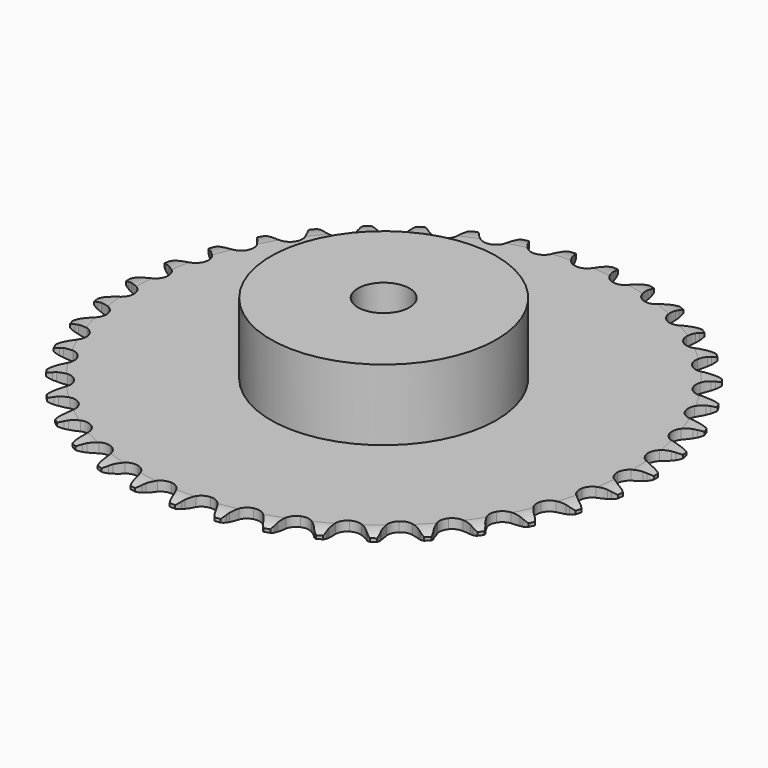
from build123d import *

# Parameters (mm, degrees)
PAD_DEPTH         = 3
SKETCH001_R       = 35
PAD001_DEPTH      = 25
SKETCH002_R       = 8
POCKET_DEPTH      = 0.001
POCKET_DEPTH_BACK = 25.001


with BuildPart() as part:
    # Sprocket → Pad (new body)
    with BuildSketch(Plane.XY):
        with BuildLine():
            ThreePointArc((-6.68105, 82.759654), (-5.637565, 81.583335), (-4.91942, 80.18446))
            Line((-4.91942, 80.18446), (-4.541526, 79.144757))
            ThreePointArc((-4.541526, 79.144757), (-3.943631, 77.809108), (-3.159576, 76.573513))
            ThreePointArc((-3.159576, 76.573513), (-1.768822, 75.402549), (0, 74.982286))
            ThreePointArc((0, 74.982286), (1.768822, 75.402549), (3.159576, 76.573513))
            ThreePointArc((3.159576, 76.573513), (3.943631, 77.809108), (4.541526, 79.144757))
            Line((4.541526, 79.144757), (4.91942, 80.18446))
            ThreePointArc((4.91942, 80.18446), (5.637565, 81.583335), (6.68105, 82.759654))
            ThreePointArc((6.68105, 82.759654), (7.522327, 81.431182), (8.006777, 79.935223))
            Line((8.006777, 79.935223), (8.212997, 78.848366))
            ThreePointArc((8.212997, 78.848366), (8.588897, 77.434104), (9.164595, 76.088738))
            ThreePointArc((9.164595, 76.088738), (10.349503, 74.709845), (12.028004, 74.011285))
            ThreePointArc((12.028004, 74.011285), (13.841336, 74.142367), (15.401916, 75.075075))
            Line((15.401916, 75.075075), (17.178426, 77.391342))
            ThreePointArc((17.178426, 77.391342), (17.435129, 77.881524), (17.718207, 78.356962))
            ThreePointArc((17.718207, 78.356962), (18.651447, 79.622524), (19.870114, 80.616222))
            ThreePointArc((19.870114, 80.616222), (20.487395, 79.170003), (20.725603, 77.615705))
            Line((20.725603, 77.615705), (20.754809, 76.509843))
            ThreePointArc((20.754809, 76.509843), (20.898977, 75.053596), (21.251408, 73.633304))
            ThreePointArc((21.251408, 73.633304), (22.199782, 72.082195), (23.74449, 71.12343))
            ThreePointArc((23.74449, 71.12343), (25.555366, 70.961936), (27.245354, 71.632231))
            Line((27.245354, 71.632231), (29.370415, 73.633531))
            ThreePointArc((29.370415, 73.633531), (29.702423, 74.076187), (30.058101, 74.500059))
            ThreePointArc((30.058101, 74.500059), (31.182267, 75.59953), (32.544553, 76.384873))
            ThreePointArc((32.544553, 76.384873), (32.921851, 74.858363), (32.907646, 73.285982))
            Line((32.907646, 73.285982), (32.759081, 72.189755))
            ThreePointArc((32.759081, 72.189755), (32.667784, 70.72924), (32.78782, 69.270807))
            ThreePointArc((32.78782, 69.270807), (33.475098, 67.587654), (34.846006, 66.393517))
            ThreePointArc((34.846006, 66.393517), (36.607526, 65.943629), (38.383152, 66.334151))
            Line((38.383152, 66.334151), (40.801724, 67.96865))
            ThreePointArc((40.801724, 67.96865), (41.200441, 68.352316), (41.619507, 68.713645))
            ThreePointArc((41.619507, 68.713645), (42.905482, 69.618549), (44.376105, 70.175195))
            ThreePointArc((44.376105, 70.175195), (44.503647, 68.607931), (44.237399, 67.05819))
            Line((44.237399, 67.05819), (43.914911, 65.99999))
            ThreePointArc((43.914911, 65.99999), (43.590513, 64.573034), (43.475046, 63.114232))
            ThreePointArc((43.475046, 63.114232), (43.883426, 61.342629), (45.045028, 59.944046))
            ThreePointArc((45.045028, 59.944046), (46.71157, 59.217416), (48.526846, 59.31805))
            Line((48.526846, 59.31805), (51.176291, 60.543417))
            ThreePointArc((51.176291, 60.543417), (51.631388, 60.858156), (52.102989, 61.147583))
            ThreePointArc((52.102989, 61.147583), (53.517468, 61.834484), (55.058339, 62.148017))
            ThreePointArc((55.058339, 62.148017), (54.932823, 60.580589), (54.421427, 59.093626))
            Line((54.421427, 59.093626), (53.933367, 58.100861))
            ThreePointArc((53.933367, 58.100861), (53.38427, 56.744421), (53.03629, 55.323031))
            ThreePointArc((53.03629, 55.323031), (53.155197, 53.508861), (54.077408, 51.942055))
            ThreePointArc((54.077408, 51.942055), (55.605809, 50.957503), (57.41372, 50.765643))
            Line((57.41372, 50.765643), (60.225418, 51.550141))
            ThreePointArc((60.225418, 51.550141), (60.72511, 51.787802), (61.237031, 51.99783))
            ThreePointArc((61.237031, 51.99783), (62.74338, 52.448938), (64.314591, 52.511238))
            ThreePointArc((64.314591, 52.511238), (63.939267, 50.984242), (63.195968, 49.598568))
            Line((63.195968, 49.598568), (62.554978, 48.696949))
            ThreePointArc((62.554978, 48.696949), (61.795403, 47.446156), (61.223922, 46.098994))
            ThreePointArc((61.223922, 46.098994), (61.050276, 44.289242), (61.709211, 42.594793))
            ThreePointArc((61.709211, 42.594793), (63.059887, 41.377818), (64.81361, 40.898433))
            Line((64.81361, 40.898433), (67.714739, 41.221744))
            ThreePointArc((67.714739, 41.221744), (68.246084, 41.376171), (68.785066, 41.501362))
            ThreePointArc((68.785066, 41.501362), (70.344271, 41.704992), (71.905129, 41.514445))
            ThreePointArc((71.905129, 41.514445), (71.289718, 40.06743), (70.333766, 38.818934))
            Line((70.333766, 38.818934), (69.556447, 38.031813))
            ThreePointArc((69.556447, 38.031813), (68.606067, 36.919061), (67.825887, 35.681016))
            ThreePointArc((67.825887, 35.681016), (67.364185, 33.922555), (67.742778, 32.144348))
            ThreePointArc((67.742778, 32.144348), (68.880747, 30.726469), (70.534861, 29.971975))
            Line((70.534861, 29.971975), (73.450284, 29.825725))
            ThreePointArc((73.450284, 29.825725), (73.999519, 29.892918), (74.551604, 29.930029))
            ThreePointArc((74.551604, 29.930029), (76.123282, 29.880909), (77.633361, 29.44245))
            ThreePointArc((77.633361, 29.44245), (76.793802, 28.112892), (75.649957, 27.033909))
            Line((75.649957, 27.033909), (74.756441, 26.381672))
            ThreePointArc((74.756441, 26.381672), (73.639871, 25.435782), (72.671197, 24.338919))
            ThreePointArc((72.671197, 24.338919), (71.933397, 22.677292), (72.021843, 20.861381))
            ThreePointArc((72.021843, 20.861381), (72.917631, 19.27932), (74.429296, 18.269259))
            Line((74.429296, 18.269259), (77.283505, 17.657236))
            ThreePointArc((77.283505, 17.657236), (77.836406, 17.635455), (78.387295, 17.583525))
            ThreePointArc((78.387295, 17.583525), (79.93074, 17.282925), (81.350931, 16.607911))
            ThreePointArc((81.350931, 16.607911), (80.308968, 15.430245), (79.006854, 14.548721))
            Line((79.006854, 14.548721), (78.020283, 14.04826))
            ThreePointArc((78.020283, 14.04826), (76.76644, 13.293729), (75.634361, 12.366456))
            ThreePointArc((75.634361, 12.366456), (74.639572, 10.844698), (74.43558, 9.038116))
            ThreePointArc((74.43558, 9.038116), (75.065988, 7.332848), (76.396051, 6.093378))
            Line((76.396051, 6.093378), (79.115123, 5.031433))
            ThreePointArc((79.115123, 5.031433), (79.657371, 4.921243), (80.192795, 4.781617))
            ThreePointArc((80.192795, 4.781617), (81.668034, 4.237324), (82.961554, 3.343236))
            ThreePointArc((82.961554, 3.343236), (81.744173, 2.347963), (80.317515, 1.686728))
            Line((80.317515, 1.686728), (79.26344, 1.351005))
            ThreePointArc((79.26344, 1.351005), (77.904799, 0.807376), (76.638635, 0.073709))
            ThreePointArc((76.638635, 0.073709), (75.412621, -1.268767), (74.921475, -3.019232))
            ThreePointArc((74.921475, -3.019232), (75.270174, -4.803542), (76.384189, -6.240318))
            Line((76.384189, -6.240318), (78.897702, -7.724681))
            ThreePointArc((78.897702, -7.724681), (79.415252, -7.920427), (79.921345, -8.144133))
            ThreePointArc((79.921345, -8.144133), (81.290169, -8.918023), (82.423517, -10.008027))
            ThreePointArc((82.423517, -10.008027), (81.062247, -10.79513), (79.547995, -11.21895))
            Line((79.547995, -11.21895), (78.453715, -11.38124))
            ThreePointArc((78.453715, -11.38124), (77.025464, -11.699888), (75.658009, -12.220947))
            ThreePointArc((75.658009, -12.220947), (74.232523, -13.349372), (73.466942, -14.998384))
            ThreePointArc((73.466942, -14.998384), (73.524903, -16.815523), (74.394016, -18.412393))
            Line((74.394016, -18.412393), (76.636872, -20.28073))
            ThreePointArc((76.636872, -20.28073), (77.11632, -20.556961), (77.579974, -20.858954))
            ThreePointArc((77.579974, -20.858954), (78.806932, -21.842397), (79.750753, -23.100087))
            ThreePointArc((79.750753, -23.100087), (78.280852, -23.658635), (76.718223, -23.834064))
            Line((76.718223, -23.834064), (75.612081, -23.818717))
            ThreePointArc((75.612081, -23.818717), (74.151211, -23.904131), (72.71788, -24.199087))
            ThreePointArc((72.71788, -24.199087), (71.129841, -25.084235), (70.109655, -26.589085))
            ThreePointArc((70.109655, -26.589085), (69.875375, -28.39199), (70.477078, -30.107597))
            Line((70.477078, -30.107597), (72.391186, -32.311518))
            ThreePointArc((72.391186, -32.311518), (72.820115, -32.661082), (73.229322, -33.033539))
            ThreePointArc((73.229322, -33.033539), (74.282636, -34.201064), (75.012487, -35.593868))
            ThreePointArc((75.012487, -35.593868), (73.472024, -35.909393), (71.901489, -35.831887))
            Line((71.901489, -35.831887), (70.812134, -35.639302))
            ThreePointArc((70.812134, -35.639302), (69.35648, -35.48927), (67.894396, -35.550483))
            ThreePointArc((67.894396, -35.550483), (66.184934, -36.16943), (64.936564, -37.491143))
            ThreePointArc((64.936564, -37.491143), (64.416112, -39.23312), (64.73482, -41.02303))
            Line((64.73482, -41.02303), (66.270607, -43.505456))
            ThreePointArc((66.270607, -43.505456), (66.637908, -43.919297), (66.982069, -44.352573))
            ThreePointArc((66.982069, -44.352573), (67.834459, -45.673942), (68.331437, -47.165786))
            ThreePointArc((68.331437, -47.165786), (66.760308, -47.230117), (65.222545, -46.901684))
            Line((65.222545, -46.901684), (64.178189, -46.536847))
            ThreePointArc((64.178189, -46.536847), (62.765453, -46.155255), (61.312483, -45.981141))
            ThreePointArc((61.312483, -45.981141), (59.525872, -46.317855), (58.08165, -47.4222))
            ThreePointArc((58.08165, -47.4222), (57.288505, -49.058132), (57.315964, -50.875988))
            Line((57.315964, -50.875988), (58.433655, -53.572624))
            ThreePointArc((58.433655, -53.572624), (58.729814, -54.040026), (59.000016, -54.522898))
            ThreePointArc((59.000016, -54.522898), (59.629405, -55.963889), (59.880639, -57.516135))
            ThreePointArc((59.880639, -57.516135), (58.319536, -57.327606), (56.854371, -56.756751))
            Line((56.854371, -56.756751), (55.882063, -56.229113))
            ThreePointArc((55.882063, -56.229113), (54.548833, -55.625843), (53.142608, -55.220911))
            ThreePointArc((53.142608, -55.220911), (51.325121, -55.266673), (49.722452, -56.125047))
            ThreePointArc((49.722452, -56.125047), (48.677157, -57.612565), (48.412655, -59.411284))
            Line((48.412655, -59.411284), (49.083301, -62.25229))
            ThreePointArc((49.083301, -62.25229), (49.300648, -62.761147), (49.489893, -63.281109))
            ThreePointArc((49.489893, -63.281109), (49.87998, -64.804401), (49.878964, -66.376846))
            ThreePointArc((49.878964, -66.376846), (48.368319, -65.94034), (47.013699, -65.141849))
            Line((47.013699, -65.141849), (46.138621, -64.465074))
            ThreePointArc((46.138621, -64.465074), (44.919427, -63.655751), (43.596368, -63.030489))
            ThreePointArc((43.596368, -63.030489), (41.795077, -62.784112), (40.075469, -63.374284))
            ThreePointArc((40.075469, -63.374284), (38.805095, -64.674862), (38.255484, -66.40786))
            Line((38.255484, -66.40786), (38.461715, -69.319655))
            ThreePointArc((38.461715, -69.319655), (38.594622, -69.856786), (38.698009, -70.400372))
            ThreePointArc((38.698009, -70.400372), (38.838691, -71.966512), (38.585449, -73.518431))
            ThreePointArc((38.585449, -73.518431), (37.164387, -72.845254), (35.955396, -71.839806))
            Line((35.955396, -71.839806), (35.200213, -71.031423))
            ThreePointArc((35.200213, -71.031423), (34.126632, -70.037009), (32.921005, -69.20761))
            ThreePointArc((32.921005, -69.20761), (31.182562, -68.675476), (29.390552, -68.982161))
            ThreePointArc((29.390552, -68.982161), (27.928002, -70.062115), (27.107515, -71.684506))
            Line((27.107515, -71.684506), (26.843992, -74.591676))
            ThreePointArc((26.843992, -74.591676), (26.889015, -75.143172), (26.903866, -75.696303))
            ThreePointArc((26.903866, -75.696303), (26.7915, -77.264729), (26.292592, -78.755928))
            ThreePointArc((26.292592, -78.755928), (24.997918, -77.863514), (23.965868, -76.677151))
            Line((23.965868, -76.677151), (23.350138, -75.758096))
            ThreePointArc((23.350138, -75.758096), (22.449975, -74.604344), (21.393006, -73.59229))
            ThreePointArc((21.393006, -73.59229), (19.762435, -72.788181), (17.944435, -72.803437))
            ThreePointArc((17.944435, -72.803437), (16.327588, -73.634795), (15.257477, -75.104562))
            Line((15.257477, -75.104562), (14.531023, -77.931813))
            ThreePointArc((14.531023, -77.931813), (14.486997, -78.483389), (14.412927, -79.031739))
            ThreePointArc((14.412927, -79.031739), (14.050423, -80.56183), (13.318771, -81.953688))
            ThreePointArc((13.318771, -81.953688), (12.184015, -80.86515), (11.355636, -79.528598))
            Line((11.355636, -79.528598), (10.895306, -78.522674))
            ThreePointArc((10.895306, -78.522674), (10.191875, -77.239467), (9.310938, -76.070969))
            ThreePointArc((9.310938, -76.070969), (7.830471, -75.015711), (6.033567, -74.739141))
            ThreePointArc((6.033567, -74.739141), (4.304298, -75.300373), (3.012277, -76.579449))
            Line((3.012277, -76.579449), (1.841708, -79.253556))
            ThreePointArc((1.841708, -79.253556), (1.709773, -79.790928), (1.5487, -80.320295))
            ThreePointArc((1.5487, -80.320295), (0.945447, -81.772421), (0, -83.028891))
            ThreePointArc((0, -83.028891), (-0.945447, -81.772421), (-1.5487, -80.320295))
            Line((-1.5487, -80.320295), (-1.841708, -79.253556))
            ThreePointArc((-1.841708, -79.253556), (-2.330189, -77.874128), (-3.012277, -76.579449))
            ThreePointArc((-3.012277, -76.579449), (-4.304298, -75.300373), (-6.033567, -74.739141))
            ThreePointArc((-6.033567, -74.739141), (-7.830471, -75.015711), (-9.310938, -76.070969))
            Line((-9.310938, -76.070969), (-10.895306, -78.522674))
            ThreePointArc((-10.895306, -78.522674), (-11.111733, -79.031923), (-11.355636, -79.528598))
            ThreePointArc((-11.355636, -79.528598), (-12.184015, -80.86515), (-13.318771, -81.953688))
            ThreePointArc((-13.318771, -81.953688), (-14.050423, -80.56183), (-14.412927, -79.031739))
            Line((-14.412927, -79.031739), (-14.531023, -77.931813))
            ThreePointArc((-14.531023, -77.931813), (-14.791902, -76.49189), (-15.257477, -75.104562))
            ThreePointArc((-15.257477, -75.104562), (-16.327588, -73.634795), (-17.944435, -72.803437))
            ThreePointArc((-17.944435, -72.803437), (-19.762435, -72.788181), (-21.393006, -73.59229))
            Line((-21.393006, -73.59229), (-23.350138, -75.758096))
            ThreePointArc((-23.350138, -75.758096), (-23.645451, -76.226033), (-23.965868, -76.677151))
            ThreePointArc((-23.965868, -76.677151), (-24.997918, -77.863514), (-26.292592, -78.755928))
            ThreePointArc((-26.292592, -78.755928), (-26.7915, -77.264729), (-26.903866, -75.696303))
            Line((-26.903866, -75.696303), (-26.843992, -74.591676))
            ThreePointArc((-26.843992, -74.591676), (-26.870513, -73.128552), (-27.107515, -71.684506))
            ThreePointArc((-27.107515, -71.684506), (-27.928002, -70.062115), (-29.390552, -68.982161))
            ThreePointArc((-29.390552, -68.982161), (-31.182562, -68.675476), (-32.921005, -69.20761))
            Line((-32.921005, -69.20761), (-35.200213, -71.031423))
            ThreePointArc((-35.200213, -71.031423), (-35.566764, -71.445929), (-35.955396, -71.839806))
            ThreePointArc((-35.955396, -71.839806), (-37.164387, -72.845254), (-38.585449, -73.518431))
            ThreePointArc((-38.585449, -73.518431), (-38.838691, -71.966512), (-38.698009, -70.400372))
            Line((-38.698009, -70.400372), (-38.461715, -69.319655))
            ThreePointArc((-38.461715, -69.319655), (-38.253192, -67.871223), (-38.255484, -66.40786))
            ThreePointArc((-38.255484, -66.40786), (-38.805095, -64.674862), (-40.075469, -63.374284))
            ThreePointArc((-40.075469, -63.374284), (-41.795077, -62.784112), (-43.596368, -63.030489))
            Line((-43.596368, -63.030489), (-46.138621, -64.465074))
            ThreePointArc((-46.138621, -64.465074), (-46.566917, -64.815413), (-47.013699, -65.141849))
            ThreePointArc((-47.013699, -65.141849), (-48.368319, -65.94034), (-49.878964, -66.376846))
            ThreePointArc((-49.878964, -66.376846), (-49.87998, -64.804401), (-49.489893, -63.281109))
            Line((-49.489893, -63.281109), (-49.083301, -62.25229))
            ThreePointArc((-49.083301, -62.25229), (-48.645133, -60.856065), (-48.412655, -59.411284))
            ThreePointArc((-48.412655, -59.411284), (-48.677157, -57.612565), (-49.722452, -56.125047))
            ThreePointArc((-49.722452, -56.125047), (-51.325121, -55.266673), (-53.142608, -55.220911))
            Line((-53.142608, -55.220911), (-55.882063, -56.229113))
            ThreePointArc((-55.882063, -56.229113), (-56.361011, -56.506211), (-56.854371, -56.756751))
            ThreePointArc((-56.854371, -56.756751), (-58.319536, -57.327606), (-59.880639, -57.516135))
            ThreePointArc((-59.880639, -57.516135), (-59.629405, -55.963889), (-59.000016, -54.522898))
            Line((-59.000016, -54.522898), (-58.433655, -53.572624))
            ThreePointArc((-58.433655, -53.572624), (-57.77719, -52.264767), (-57.315964, -50.875988))
            ThreePointArc((-57.315964, -50.875988), (-57.288505, -49.058132), (-58.08165, -47.4222))
            ThreePointArc((-58.08165, -47.4222), (-59.525872, -46.317855), (-61.312483, -45.981141))
            Line((-61.312483, -45.981141), (-64.178189, -46.536847))
            ThreePointArc((-64.178189, -46.536847), (-64.695384, -46.733529), (-65.222545, -46.901684))
            ThreePointArc((-65.222545, -46.901684), (-66.760308, -47.230117), (-68.331437, -47.165786))
            ThreePointArc((-68.331437, -47.165786), (-67.834459, -45.673942), (-66.982069, -44.352573))
            Line((-66.982069, -44.352573), (-66.270607, -43.505456))
            ThreePointArc((-66.270607, -43.505456), (-65.412849, -42.319839), (-64.73482, -41.02303))
            ThreePointArc((-64.73482, -41.02303), (-64.416112, -39.23312), (-64.936564, -37.491143))
            ThreePointArc((-64.936564, -37.491143), (-66.184934, -36.16943), (-67.894396, -35.550483))
            Line((-67.894396, -35.550483), (-70.812134, -35.639302))
            ThreePointArc((-70.812134, -35.639302), (-71.354181, -35.750472), (-71.901489, -35.831887))
            ThreePointArc((-71.901489, -35.831887), (-73.472024, -35.909393), (-75.012487, -35.593868))
            ThreePointArc((-75.012487, -35.593868), (-74.282636, -34.201064), (-73.229322, -33.033539))
            Line((-73.229322, -33.033539), (-72.391186, -32.311518))
            ThreePointArc((-72.391186, -32.311518), (-71.354349, -31.278849), (-70.477078, -30.107597))
            ThreePointArc((-70.477078, -30.107597), (-69.875375, -28.39199), (-70.109655, -26.589085))
            ThreePointArc((-70.109655, -26.589085), (-71.129841, -25.084235), (-72.71788, -24.199087))
            Line((-72.71788, -24.199087), (-75.612081, -23.818717))
            ThreePointArc((-75.612081, -23.818717), (-76.164942, -23.841497), (-76.718223, -23.834064))
            ThreePointArc((-76.718223, -23.834064), (-78.280852, -23.658635), (-79.750753, -23.100087))
            ThreePointArc((-79.750753, -23.100087), (-78.806932, -21.842397), (-77.579974, -20.858954))
            Line((-77.579974, -20.858954), (-76.636872, -20.28073))
            ThreePointArc((-76.636872, -20.28073), (-75.447809, -19.427754), (-74.394016, -18.412393))
            ThreePointArc((-74.394016, -18.412393), (-73.524903, -16.815523), (-73.466942, -14.998384))
            ThreePointArc((-73.466942, -14.998384), (-74.232523, -13.349372), (-75.658009, -12.220947))
            Line((-75.658009, -12.220947), (-78.453715, -11.38124))
            ThreePointArc((-78.453715, -11.38124), (-79.003071, -11.31504), (-79.547995, -11.21895))
            ThreePointArc((-79.547995, -11.21895), (-81.062247, -10.79513), (-82.423517, -10.008027))
            ThreePointArc((-82.423517, -10.008027), (-81.290169, -8.918023), (-79.921345, -8.144133))
            Line((-79.921345, -8.144133), (-78.897702, -7.724681))
            ThreePointArc((-78.897702, -7.724681), (-77.587211, -7.07349), (-76.384189, -6.240318))
            ThreePointArc((-76.384189, -6.240318), (-75.270174, -4.803542), (-74.921475, -3.019232))
            ThreePointArc((-74.921475, -3.019232), (-75.412621, -1.268767), (-76.638635, 0.073709))
            Line((-76.638635, 0.073709), (-79.26344, 1.351005))
            ThreePointArc((-79.26344, 1.351005), (-79.795063, 1.50447), (-80.317515, 1.686728))
            ThreePointArc((-80.317515, 1.686728), (-81.744173, 2.347963), (-82.961554, 3.343236))
            ThreePointArc((-82.961554, 3.343236), (-81.668034, 4.237324), (-80.192795, 4.781617))
            Line((-80.192795, 4.781617), (-79.115123, 5.031433))
            ThreePointArc((-79.115123, 5.031433), (-77.717144, 5.463974), (-76.396051, 6.093378))
            ThreePointArc((-76.396051, 6.093378), (-75.065988, 7.332848), (-74.43558, 9.038116))
            ThreePointArc((-74.43558, 9.038116), (-74.639572, 10.844698), (-75.634361, 12.366456))
            Line((-75.634361, 12.366456), (-78.020283, 14.04826))
            ThreePointArc((-78.020283, 14.04826), (-78.520403, 14.285016), (-79.006854, 14.548721))
            ThreePointArc((-79.006854, 14.548721), (-80.308968, 15.430245), (-81.350931, 16.607911))
            ThreePointArc((-81.350931, 16.607911), (-79.93074, 17.282925), (-78.387295, 17.583525))
            Line((-78.387295, 17.583525), (-77.283505, 17.657236))
            ThreePointArc((-77.283505, 17.657236), (-75.834245, 17.859924), (-74.429296, 18.269259))
            ThreePointArc((-74.429296, 18.269259), (-72.917631, 19.27932), (-72.021843, 20.861381))
            ThreePointArc((-72.021843, 20.861381), (-71.933397, 22.677292), (-72.671197, 24.338919))
            Line((-72.671197, 24.338919), (-74.756441, 26.381672))
            ThreePointArc((-74.756441, 26.381672), (-75.212107, 26.695587), (-75.649957, 27.033909))
            ThreePointArc((-75.649957, 27.033909), (-76.793802, 28.112892), (-77.633361, 29.44245))
            ThreePointArc((-77.633361, 29.44245), (-76.123282, 29.880909), (-74.551604, 29.930029))
            Line((-74.551604, 29.930029), (-73.450284, 29.825725))
            ThreePointArc((-73.450284, 29.825725), (-71.987278, 29.793311), (-70.534861, 29.971975))
            ThreePointArc((-70.534861, 29.971975), (-68.880747, 30.726469), (-67.742778, 32.144348))
            ThreePointArc((-67.742778, 32.144348), (-67.364185, 33.922555), (-67.825887, 35.681016))
            Line((-67.825887, 35.681016), (-69.556447, 38.031813))
            ThreePointArc((-69.556447, 38.031813), (-69.955857, 38.414757), (-70.333766, 38.818934))
            ThreePointArc((-70.333766, 38.818934), (-71.289718, 40.06743), (-71.905129, 41.514445))
            ThreePointArc((-71.905129, 41.514445), (-70.344271, 41.704992), (-68.785066, 41.501362))
            Line((-68.785066, 41.501362), (-67.714739, 41.221744))
            ThreePointArc((-67.714739, 41.221744), (-66.275878, 40.955067), (-64.81361, 40.898433))
            ThreePointArc((-64.81361, 40.898433), (-63.059887, 41.377818), (-61.709211, 42.594793))
            ThreePointArc((-61.709211, 42.594793), (-61.050276, 44.289242), (-61.223922, 46.098994))
            Line((-61.223922, 46.098994), (-62.554978, 48.696949))
            ThreePointArc((-62.554978, 48.696949), (-62.887786, 49.139004), (-63.195968, 49.598568))
            ThreePointArc((-63.195968, 49.598568), (-63.939267, 50.984242), (-64.314591, 52.511238))
            ThreePointArc((-64.314591, 52.511238), (-62.74338, 52.448938), (-61.237031, 51.99783))
            Line((-61.237031, 51.99783), (-60.225418, 51.550141))
            ThreePointArc((-60.225418, 51.550141), (-58.847969, 51.056108), (-57.41372, 50.765643))
            ThreePointArc((-57.41372, 50.765643), (-55.605809, 50.957503), (-54.077408, 51.942055))
            ThreePointArc((-54.077408, 51.942055), (-53.155197, 53.508861), (-53.03629, 55.323031))
            Line((-53.03629, 55.323031), (-53.933367, 58.100861))
            ThreePointArc((-53.933367, 58.100861), (-54.190955, 58.590578), (-54.421427, 59.093626))
            ThreePointArc((-54.421427, 59.093626), (-54.932823, 60.580589), (-55.058339, 62.148017))
            ThreePointArc((-55.058339, 62.148017), (-53.517468, 61.834484), (-52.102989, 61.147583))
            Line((-52.102989, 61.147583), (-51.176291, 60.543417))
            ThreePointArc((-51.176291, 60.543417), (-49.895927, 59.834823), (-48.526846, 59.31805))
            ThreePointArc((-48.526846, 59.31805), (-46.71157, 59.217416), (-45.045028, 59.944046))
            ThreePointArc((-45.045028, 59.944046), (-43.883426, 61.342629), (-43.475046, 63.114232))
            Line((-43.475046, 63.114232), (-43.914911, 65.99999))
            ThreePointArc((-43.914911, 65.99999), (-44.090607, 66.524686), (-44.237399, 67.05819))
            ThreePointArc((-44.237399, 67.05819), (-44.503647, 68.607931), (-44.376105, 70.175195))
            ThreePointArc((-44.376105, 70.175195), (-42.905482, 69.618549), (-41.619507, 68.713645))
            Line((-41.619507, 68.713645), (-40.801724, 67.96865))
            ThreePointArc((-40.801724, 67.96865), (-39.651607, 67.063847), (-38.383152, 66.334151))
            ThreePointArc((-38.383152, 66.334151), (-36.607526, 65.943629), (-34.846006, 66.393517))
            ThreePointArc((-34.846006, 66.393517), (-33.475098, 67.587654), (-32.78782, 69.270807))
            Line((-32.78782, 69.270807), (-32.759081, 72.189755))
            ThreePointArc((-32.759081, 72.189755), (-32.848335, 72.735839), (-32.907646, 73.285982))
            ThreePointArc((-32.907646, 73.285982), (-32.921851, 74.858363), (-32.544553, 76.384873))
            ThreePointArc((-32.544553, 76.384873), (-31.182267, 75.59953), (-30.058101, 74.500059))
            Line((-30.058101, 74.500059), (-29.370415, 73.633531))
            ThreePointArc((-29.370415, 73.633531), (-28.380332, 72.555953), (-27.245354, 71.632231))
            ThreePointArc((-27.245354, 71.632231), (-25.555366, 70.961936), (-23.74449, 71.12343))
            ThreePointArc((-23.74449, 71.12343), (-22.199782, 72.082195), (-21.251408, 73.633304))
            Line((-21.251408, 73.633304), (-20.754809, 76.509843))
            ThreePointArc((-20.754809, 76.509843), (-20.755309, 77.063173), (-20.725603, 77.615705))
            ThreePointArc((-20.725603, 77.615705), (-20.487395, 79.170003), (-19.870114, 80.616222))
            ThreePointArc((-19.870114, 80.616222), (-18.651447, 79.622524), (-17.718207, 78.356962))
            Line((-17.718207, 78.356962), (-17.178426, 77.391342))
            ThreePointArc((-17.178426, 77.391342), (-16.374021, 76.168898), (-15.401916, 75.075075))
            ThreePointArc((-15.401916, 75.075075), (-13.841336, 74.142367), (-12.028004, 74.011285))
            ThreePointArc((-12.028004, 74.011285), (-10.349503, 74.709845), (-9.164595, 76.088738))
            Line((-9.164595, 76.088738), (-8.212997, 78.848366))
            ThreePointArc((-8.212997, 78.848366), (-8.124731, 79.394611), (-8.006777, 79.935223))
            ThreePointArc((-8.006777, 79.935223), (-7.522327, 81.431182), (-6.68105, 82.759654))
        make_face()
    extrude(amount=PAD_DEPTH)

    # Sketch → Groove (revolve, cut)
    with BuildSketch(Plane.XZ):
        with BuildLine():
            Line((76.9, 0), (81.9, 0))
            Line((86.9, 0), (81.9, 0))
            Line((86.9, 3), (86.9, 0))
            Line((81.9, 3), (86.9, 3))
            Line((76.9, 3), (81.9, 3))
            ThreePointArc((81.9, 2), (79.44951, 2.747549), (76.9, 3))
            Line((81.9, 1), (81.9, 2))
            ThreePointArc((76.9, 0), (79.44951, 0.252451), (81.9, 1))
        make_face()
    revolve(axis=Axis((0, 0, 0), (0, 0, 1)), mode=Mode.SUBTRACT)

    # Sketch001 → Pad001 (join)
    with BuildSketch(Plane.XY):
        Circle(SKETCH001_R)
    extrude(amount=PAD001_DEPTH)

    # Sketch002 → Pocket (cut, two sides)
    with BuildSketch(Plane.XY) as pocket_sk:
        Circle(SKETCH002_R)
    extrude(amount=-POCKET_DEPTH, mode=Mode.SUBTRACT)
    extrude(pocket_sk.sketch, amount=POCKET_DEPTH_BACK, mode=Mode.SUBTRACT)


solid = part.part
